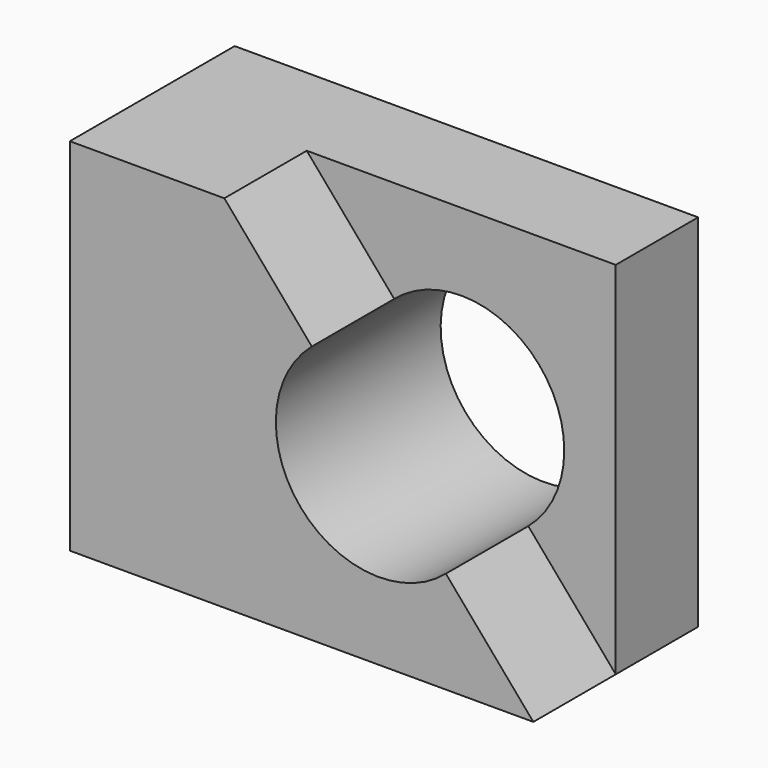
from build123d import *

# Parameters (mm, degrees)
F0_W     = 12.7
F0_H     = 44.45
F1_DEPTH = 57.15
F3_DEPTH = 12.7
F5_DEPTH = 25.4


with BuildPart() as f1:
    # F0 (on Right) → F1 (new body)
    with BuildSketch(Plane.YZ):
        with Locations((6.35, 22.225)):
            Rectangle(F0_W, F0_H)
    extrude(amount=F1_DEPTH)

    # F2 (on face) → F3 (join)
    with BuildSketch(Plane.XZ):
        Polygon((0, 44.45), (0, 0), (57.15, 0), (19.05, 44.45), align=None)
    extrude(amount=F3_DEPTH)

    # F4 (on face) → F5 (cut)
    with BuildSketch(Plane.XZ.offset(12.7)):
        with BuildLine():
            Line((46.36505, 12.582441), (29.83495, 31.867559))
            ThreePointArc((29.83495, 31.867559), (28.457441, 13.95995), (46.36505, 12.582441))
        make_face()
        with BuildLine():
            ThreePointArc((46.36505, 12.582441), (49.638114, 16.918219), (50.8, 22.225))
            ThreePointArc((50.8, 22.225), (43.406781, 33.763114), (29.83495, 31.867559))
            Line((29.83495, 31.867559), (46.36505, 12.582441))
        make_face()
    extrude(amount=-F5_DEPTH, mode=Mode.SUBTRACT)


solid = f1.part
